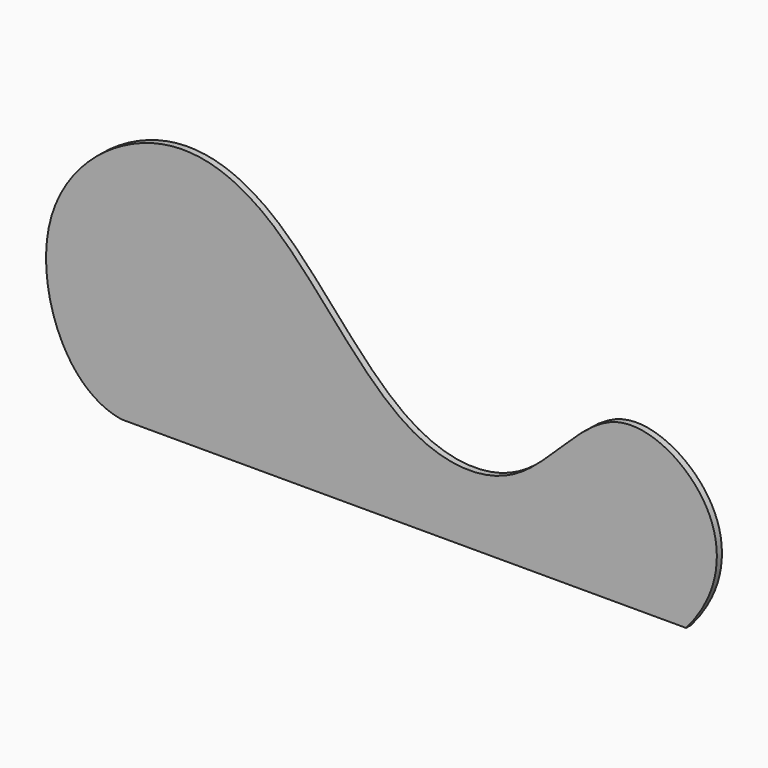
from build123d import *

# Parameters (mm, degrees)
F1_DEPTH = 18


with BuildPart() as f1:
    # F0 (on Front) → F1 (new body)
    with BuildSketch(Plane.XZ):
        with BuildLine():
            add(Edge.make_bspline(
                [(-875.0821828842, -507.1337223053), (-1033.8205664671, -482.0078641954), (-1193.1499860078, -53.503372842), (-786.1663796283, 283.1347978387), (-413.4140863946, 158.7567959942), (-114.5036533402, -310.9083765032), (272.500476626, -343.357369587), (497.4922680202, 34.360204402), (843.2730666805, -160.2489737379), (824.0116547259, -391.6294716594), (724.9178171158, -507.1337223053)],
                knots=[0, 0, 0, 0, 0.1377899472, 0.2717379597, 0.3909436888, 0.5396895354, 0.6537664083, 0.7757734575, 0.882597389, 1, 1, 1, 1], degree=3))
            Line((-875.0821828842, -507.1337223053), (724.9178171158, -507.1337223053))
        make_face()
    extrude(amount=F1_DEPTH)


solid = f1.part
